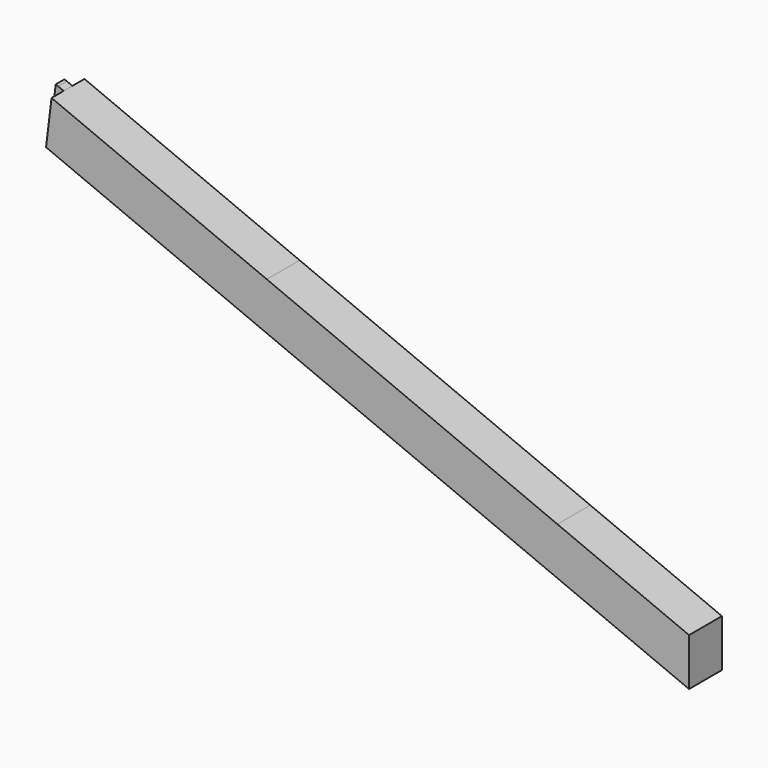
from build123d import *

# Parameters (mm, degrees)
F1_DEPTH = 95.25
F2_DEPTH = 25.4


with BuildPart() as f1:
    # F0 (on Front) → F1 (new body, symmetric)
    with BuildSketch(Plane.XZ):
        Polygon((1092.285037, 637.732517), (95.25, 1053.163782), (95.25, 833.030449), (1014.131191, 450.163286), align=None)
        Polygon((95.25, 833.030449), (95.25, 1053.163782), (69.85, 843.613782), align=None)
        Polygon((2438.4, 76.851282), (1092.285037, 637.732517), (1014.131191, 450.163286), (1606.843077, 203.2), (1820.203077, 114.3), (1850.683077, 101.6), (2094.523077, 0), (2235.2, -58.615385), (2438.4, -143.282051), align=None)
        Polygon((3048, -177.148718), (2438.4, 76.851282), (2438.4, -143.282051), (3048, -397.282051), align=None)
    extrude(amount=F1_DEPTH, both=True)

    # F0 (on Front) → F2 (join, symmetric)
    with BuildSketch(Plane.XZ):
        Polygon((69.85, 843.613782), (95.25, 1053.163782), (69.85, 1063.747115), align=None)
        Polygon((69.85, 1063.747115), (58.716269, 1068.38617), (33.316269, 858.83617), (69.85, 843.613782), align=None)
    extrude(amount=F2_DEPTH, both=True)


solid = f1.part
